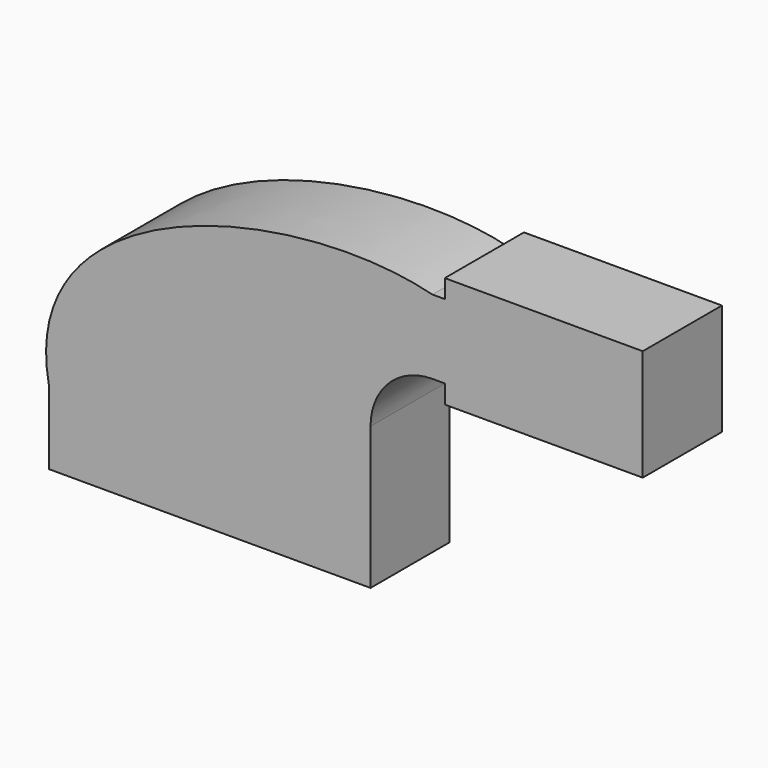
from build123d import *

# Parameters (mm, degrees)
F1_DEPTH = 25.4


with BuildPart() as f1:
    # F0 (on Front) → F1 (new body)
    with BuildSketch(Plane.XZ):
        with BuildLine():
            add(Edge.make_bspline(
                [(-41.275, 9.525), (-49.831837, 53.112175), (20.577347, 71.360916), (57.15, 61.9252)],
                knots=[0, 0, 0, 0, 111.504536, 111.504536, 111.504536, 111.504536], degree=3))
            Line((-41.275, 9.525), (22.225, 9.525))
            Line((22.225, 9.525), (22.225, 27.0002))
            ThreePointArc((22.225, 27.0002), (32.454296, 51.695904), (57.15, 61.9252))
        make_face()
        Polygon((22.225, 9.525), (-41.275, 9.525), (-41.275, -9.525), (41.275, -9.525), (41.275, 9.525), align=None)
        with BuildLine():
            Line((22.225, 27.0002), (22.225, 9.525))
            Line((22.225, 9.525), (41.275, 9.525))
            Line((41.275, 9.525), (41.275, 27.0002))
            ThreePointArc((41.275, 27.0002), (45.92468, 38.22552), (57.15, 42.8752))
            Line((57.15, 42.8752), (60.325, 42.8752))
            Line((60.325, 42.8752), (60.325, 61.9252))
            Line((60.325, 61.9252), (57.15, 61.9252))
            ThreePointArc((57.15, 61.9252), (32.454296, 51.695904), (22.225, 27.0002))
        make_face()
        Polygon((60.325, 66.675), (60.325, 61.9252), (60.325, 42.8752), (60.325, 38.1), (111.125, 38.1), (111.125, 66.675), align=None)
    extrude(amount=F1_DEPTH)


solid = f1.part
